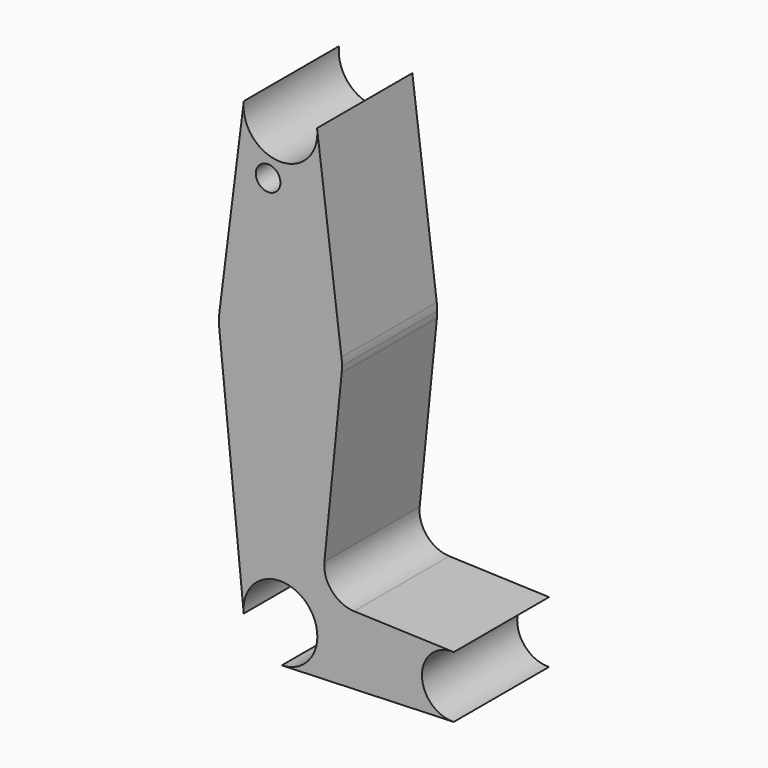
from build123d import *

# Parameters (mm, degrees)
F0_R     = 3.175
F1_DEPTH = 30.734


with BuildPart() as f1:
    # F0 (on Front) → F1 (new body)
    with BuildSketch(Plane.XZ):
        with BuildLine():
            ThreePointArc((-15.795426, 61.9125), (0, 47.625), (15.795426, 61.9125))
            ThreePointArc((15.795426, 61.9125), (15.855094, 62.705253), (15.875, 63.5))
            ThreePointArc((15.875, 63.5), (15.843841, 64.494139), (15.750488, 65.484375))
            ThreePointArc((15.750488, 65.484375), (0, 79.375), (-15.750488, 65.484375))
            ThreePointArc((-15.750488, 65.484375), (-15.873744, 63.699705), (-15.795426, 61.9125))
        make_face()
        with Locations((0, 63.5)):
            Circle(F0_R, mode=Mode.SUBTRACT)
        with Locations((0, 63.5)):
            Circle(F0_R)
        with BuildLine():
            ThreePointArc((44.733482, -7.932436), (36.5125, 0), (44.733482, 7.932436))
            Line((44.733482, 7.932436), (18.9676, 8.853234))
            ThreePointArc((18.9676, 8.853234), (13.2612, 11.571359), (11.341187, 17.593382))
            Line((11.341187, 17.593382), (15.795426, 61.9125))
            ThreePointArc((15.795426, 61.9125), (0, 47.625), (-15.795426, 61.9125))
            Line((-15.795426, 61.9125), (-9.477255, -0.9525))
            ThreePointArc((-9.477255, -0.9525), (-0.476848, 9.513056), (9.525, 0))
            ThreePointArc((9.525, 0), (6.854408, -6.613827), (0.340179, -9.518923))
            Line((0.340179, -9.518923), (44.733482, -7.932436))
        make_face()
        with BuildLine():
            Line((-9.450293, 115.490625), (-15.750488, 65.484375))
            ThreePointArc((-15.750488, 65.484375), (0, 79.375), (15.750488, 65.484375))
            Line((15.750488, 65.484375), (9.450293, 115.490625))
            ThreePointArc((9.450293, 115.490625), (9.506305, 114.896483), (9.525, 114.3))
            ThreePointArc((9.525, 114.3), (-0.596483, 104.793695), (-9.450293, 115.490625))
        make_face()
        with Locations((-3.175, 100.0252)):
            Circle(F0_R, mode=Mode.SUBTRACT)
    extrude(amount=F1_DEPTH)


solid = f1.part
